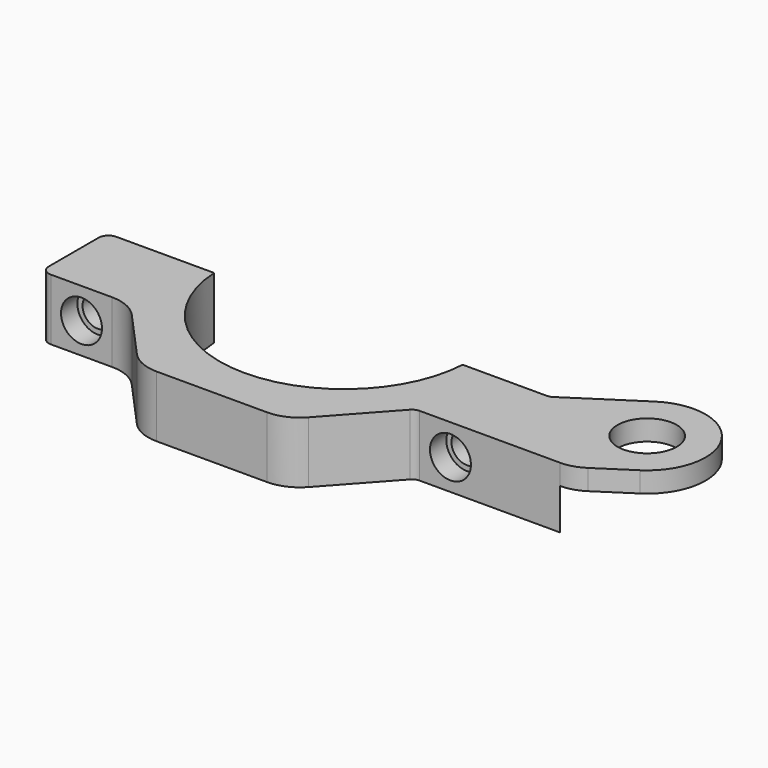
from build123d import *

# Parameters (mm, degrees)
F0_R           = 4.58966
F1_DEPTH       = 9.525
F2_R           = 4.58966
F3_DEPTH       = 6.35
F5_D           = 4.7625
F5_DEPTH       = 12.7
F5_CBORE_D     = 6.35
F5_CBORE_DEPTH = 3.175


with BuildPart() as f1:
    # F0 (on Top) → F1 (new body)
    with BuildSketch(Plane.XY):
        with BuildLine():
            Line((31.311959, 7.866156), (36.626371, 11.336331))
            ThreePointArc((36.626371, 11.336331), (39.257746, 23.870263), (26.723814, 26.501637))
            Line((26.723814, 26.501637), (16.431446, 19.780984))
            ThreePointArc((16.431446, 19.780984), (16.032886, 19.596337), (15.598217, 19.533035))
            Line((15.598217, 19.533035), (2.571234, 19.533035))
            ThreePointArc((2.571234, 19.533035), (-16.700992, 1.336157), (-35.973218, 19.533035))
            Line((-35.973218, 19.533035), (-51.14509, 19.533035))
            ThreePointArc((-51.14509, 19.533035), (-52.22272, 19.086666), (-52.66909, 18.009035))
            Line((-52.66909, 18.009035), (-52.66909, 8.357035))
            ThreePointArc((-52.66909, 8.357035), (-52.22272, 7.279404), (-51.14509, 6.833035))
            Line((-51.14509, 6.833035), (-41.62009, 6.833035))
            ThreePointArc((-41.62009, 6.833035), (-39.04111, 6.285738), (-36.906687, 4.738189))
            Line((-36.906687, 4.738189), (-29.993949, -2.918997))
            ThreePointArc((-29.993949, -2.918997), (-27.859527, -4.466546), (-25.280547, -5.013843))
            Line((-25.280547, -5.013843), (-8.121436, -5.013843))
            ThreePointArc((-8.121436, -5.013843), (-5.542457, -4.466546), (-3.408034, -2.918997))
            Line((-3.408034, -2.918997), (4.942001, 6.330272))
            ThreePointArc((4.942001, 6.330272), (5.454262, 6.701684), (6.073217, 6.833035))
            Line((6.073217, 6.833035), (27.840173, 6.833035))
            ThreePointArc((27.840173, 6.833035), (29.651294, 7.096793), (31.311959, 7.866156))
        make_face()
        with Locations((31.675093, 18.918984)):
            Circle(F0_R, mode=Mode.SUBTRACT)
    extrude(amount=F1_DEPTH)

    # F2 (on face) → F3 (cut)
    with BuildSketch(Plane(origin=(0, 0, 0), x_dir=(1, 0, 0), z_dir=(0, 0, -1))):
        with BuildLine():
            Line((27.840173, -6.833035), (16.431446, -19.780984))
            Line((16.431446, -19.780984), (26.723814, -26.501637))
            ThreePointArc((26.723814, -26.501637), (39.257746, -23.870263), (36.626371, -11.336331))
            Line((36.626371, -11.336331), (31.311959, -7.866156))
            ThreePointArc((31.311959, -7.866156), (29.651294, -7.096793), (27.840173, -6.833035))
        make_face()
        with Locations((31.675093, -18.918984)):
            Circle(F2_R, mode=Mode.SUBTRACT)
    extrude(amount=-F3_DEPTH, mode=Mode.SUBTRACT)

    # F5
    with Locations(Plane.XZ.offset(-6.833035)):
        with Locations((-46.38259, 4.7625), (10.835717, 4.74801)):
            CounterBoreHole(F5_D / 2, F5_CBORE_D / 2, F5_CBORE_DEPTH, depth=F5_DEPTH)


solid = f1.part
